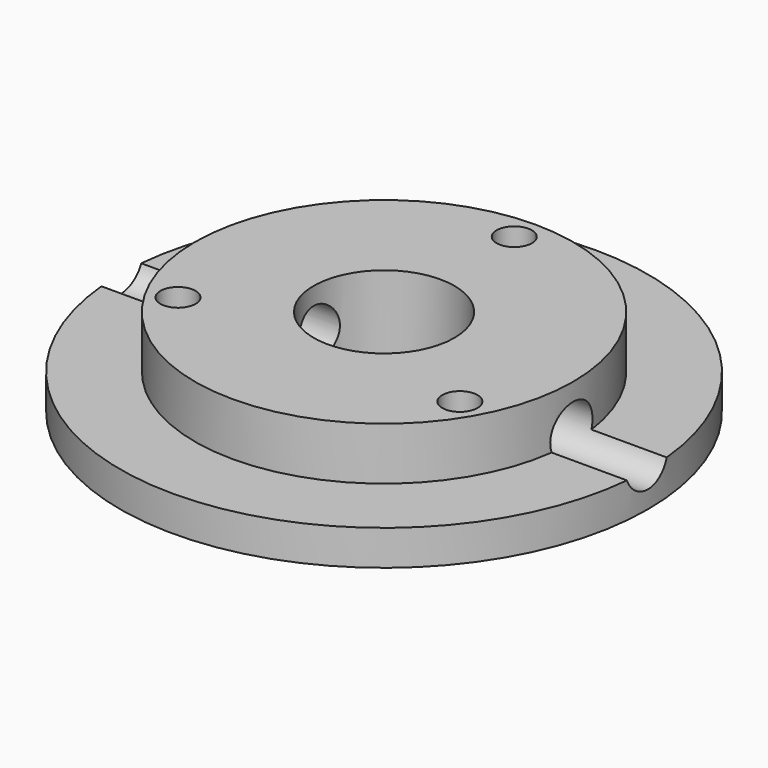
from build123d import *

# Parameters (mm, degrees)
F0_R          = 15
F0_R_2        = 4
F1_DEPTH      = 2
F2_R          = 10.75
F2_R_2        = 4
F3_DEPTH      = 3
F4_R          = 1.5
F5_DEPTH      = 25
F5_DEPTH_BACK = 25
F6_R          = 1
F7_DEPTH      = 25


with BuildPart() as f1:
    # F0 (on Top) → F1 (new body)
    with BuildSketch(Plane.XY):
        Circle(F0_R)
        Circle(F0_R_2, mode=Mode.SUBTRACT)
    extrude(amount=F1_DEPTH)

    # F2 (on face) → F3 (join)
    with BuildSketch(Plane.XY.offset(2)):
        Circle(F2_R)
        Circle(F2_R_2, mode=Mode.SUBTRACT)
    extrude(amount=F3_DEPTH)

    # F4 (on Right) → F5 (cut, two sides)
    with BuildSketch(Plane.YZ) as f5_sk:
        with Locations((0, 2.5)):
            Circle(F4_R)
    extrude(amount=-F5_DEPTH, mode=Mode.SUBTRACT)
    extrude(f5_sk.sketch, amount=F5_DEPTH_BACK, mode=Mode.SUBTRACT)

    # F6 (on face) → F7 (cut)
    with BuildSketch(Plane.XY.offset(5)):
        with Locations((8.0107347155, -4.6250004669)):
            Circle(F6_R)
        with Locations((0, 9.25)):
            Circle(F6_R)
        with Locations((-8.0107355241, -4.6249990662)):
            Circle(F6_R)
    extrude(amount=-F7_DEPTH, mode=Mode.SUBTRACT)


solid = f1.part
